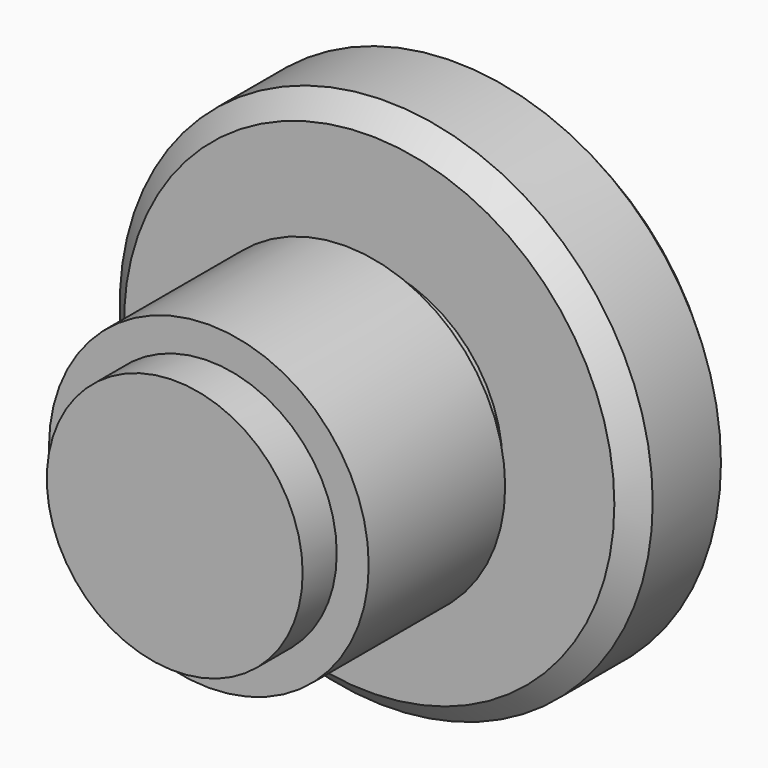
from build123d import *

# Parameters (mm, degrees)
F0_R      = 7.9375
F1_DEPTH  = 3.81
F2_R      = 4.7625
F3_DEPTH  = 6.35
F5_R      = 3.96875
F6_DEPTH  = 0.889
F7_R      = 4.7625
F7_R_2    = 3.96875
F8_DEPTH  = 6.35
F9_R      = 4.7625
F9_R_2    = 3.81
F10_DEPTH = 1.27
F11_SIZE  = 0.635


with BuildPart() as f1:
    # F0 (on Front) → F1 (new body)
    with BuildSketch(Plane.XZ):
        Circle(F0_R)
    extrude(amount=F1_DEPTH)

    # F5 (on face) → F6 (join)
    with BuildSketch(Plane.XZ.offset(3.81)):
        Circle(F5_R)
    extrude(amount=F6_DEPTH)

    # F7 (on face) → F8 (join)
    with BuildSketch(Plane.XZ.offset(4.699)):
        Circle(F7_R)
        Circle(F7_R_2, mode=Mode.SUBTRACT)
        Circle(F7_R_2)
    extrude(amount=F8_DEPTH)

    # F9 (on face) → F10 (cut)
    with BuildSketch(Plane.XZ.offset(11.049)):
        Circle(F9_R)
        Circle(F9_R_2, mode=Mode.SUBTRACT)
    extrude(amount=-F10_DEPTH, mode=Mode.SUBTRACT)

    # F11
    f11_edges = [f1.edges().sort_by_distance(p)[0] for p in [
        (-7.9375, -3.81, 0),
        (-7.9375, 0, 0),
    ]]
    chamfer(f11_edges, length=F11_SIZE)


with BuildPart() as f3:
    # F2 (on face) → F3 (new body)
    with BuildSketch(Plane.XZ.offset(3.81)):
        Circle(F2_R)
    extrude(amount=F3_DEPTH)


solid = f1.part
